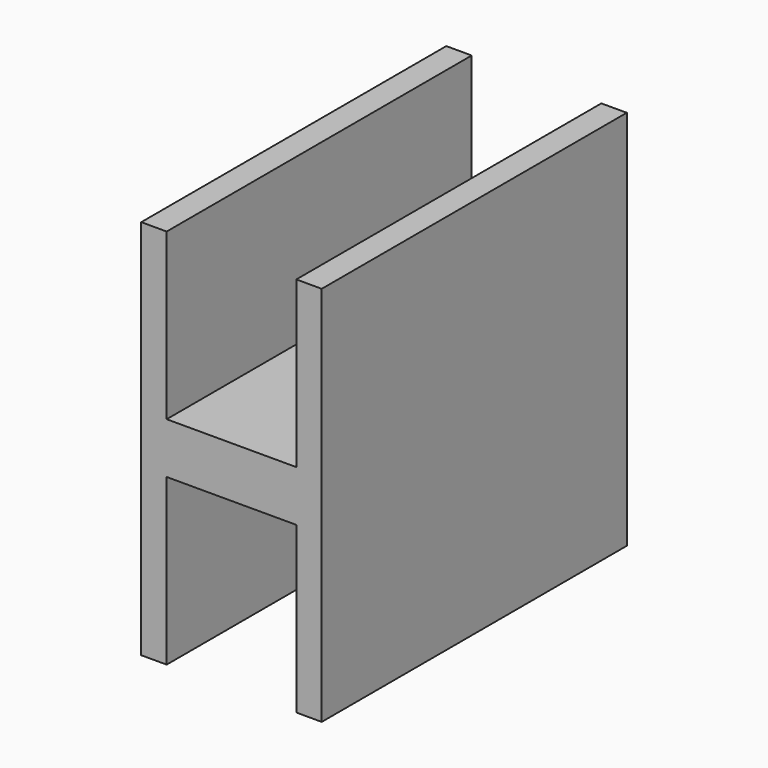
from build123d import *

# Parameters (mm, degrees)
F1_DEPTH = 30


with BuildPart() as f1:
    # F0 (on Front) → F1 (new body)
    with BuildSketch(Plane.XZ):
        Polygon((-7.1, 2), (-7.1, 0), (7.1, 0), (7.1, 2), (7.1, 15), (5.1, 15), (5.1, 2), (-5.1, 2), (-5.1, 15), (-7.1, 15), align=None)
    extrude(amount=-F1_DEPTH)

    # F2: F1 across face


with BuildPart() as f1_1:
    add(f1.part)
    add(f1.part.mirror(Plane(origin=(0, 15, 0), x_dir=(1, 0, 0), z_dir=(0, 0, -1))))


solid = f1_1.part
